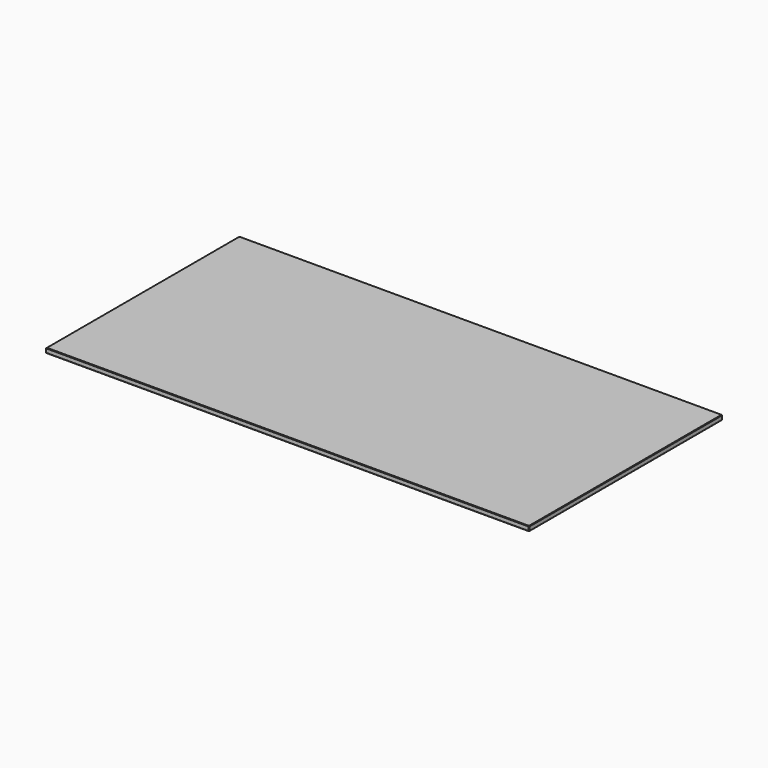
from build123d import *

# Parameters (mm, degrees)
F0_W     = 1000
F0_H     = 500
F1_DEPTH = 5
F2_SIZE  = 1
F3_SIZE  = 1
F4_SIZE  = 1
F5_SIZE  = 1
F6_SIZE  = 1
F7_SIZE  = 1
F8_SIZE  = 1


with BuildPart() as f1:
    # F0 (on Top) → F1 (new body, symmetric)
    with BuildSketch(Plane.XY):
        Rectangle(F0_W, F0_H)
        Rectangle(F0_W, F0_H)
    extrude(amount=F1_DEPTH, both=True)

    # F2
    f2_edges = [f1.edges().sort_by_distance(p)[0] for p in [
        (0, 250, 5),
    ]]
    chamfer(f2_edges, length=F2_SIZE)

    # F3
    f3_edges = [f1.edges().sort_by_distance(p)[0] for p in [
        (500, -0.5, 5),
    ]]
    chamfer(f3_edges, length=F3_SIZE)

    # F4
    f4_edges = [f1.edges().sort_by_distance(p)[0] for p in [
        (500, 0, -5),
    ]]
    chamfer(f4_edges, length=F4_SIZE)

    # F5
    f5_edges = [f1.edges().sort_by_distance(p)[0] for p in [
        (500, 250, 0),
    ]]
    chamfer(f5_edges, length=F5_SIZE)

    # F6
    f6_edges = [f1.edges().sort_by_distance(p)[0] for p in [
        (-0.5, 250, -5),
    ]]
    chamfer(f6_edges, length=F6_SIZE)

    # F7 (call 1 of 3: OpenCascade refuses the feature's edges together)
    f7_edges = [f1.edges().sort_by_distance(p)[0] for p in [
        (-0.5, -250, 5),
    ]]
    chamfer(f7_edges, length=F7_SIZE)

    # F7#2 (call 2 of 3)
    f7_2_edges = [f1.edges().sort_by_distance(p)[0] for p in [
        (-0.5, -250, -5),
    ]]
    chamfer(f7_2_edges, length=F7_SIZE)

    # F7#3 (call 3 of 3)
    f7_3_edges = [f1.edges().sort_by_distance(p)[0] for p in [
        (500, -250, 0),
    ]]
    chamfer(f7_3_edges, length=F7_SIZE)

    # F8 (call 1 of 3: OpenCascade refuses the feature's edges together)
    f8_edges = [f1.edges().sort_by_distance(p)[0] for p in [
        (-500, 250, 0),
    ]]
    chamfer(f8_edges, length=F8_SIZE)

    # F8#2 (call 2 of 3)
    f8_2_edges = [f1.edges().sort_by_distance(p)[0] for p in [
        (-500, 0, 5),
    ]]
    chamfer(f8_2_edges, length=F8_SIZE)

    # F8#3 (call 3 of 3)
    f8_3_edges = [f1.edges().sort_by_distance(p)[0] for p in [
        (-500, 0, -5),
    ]]
    chamfer(f8_3_edges, length=F8_SIZE)


solid = f1.part
